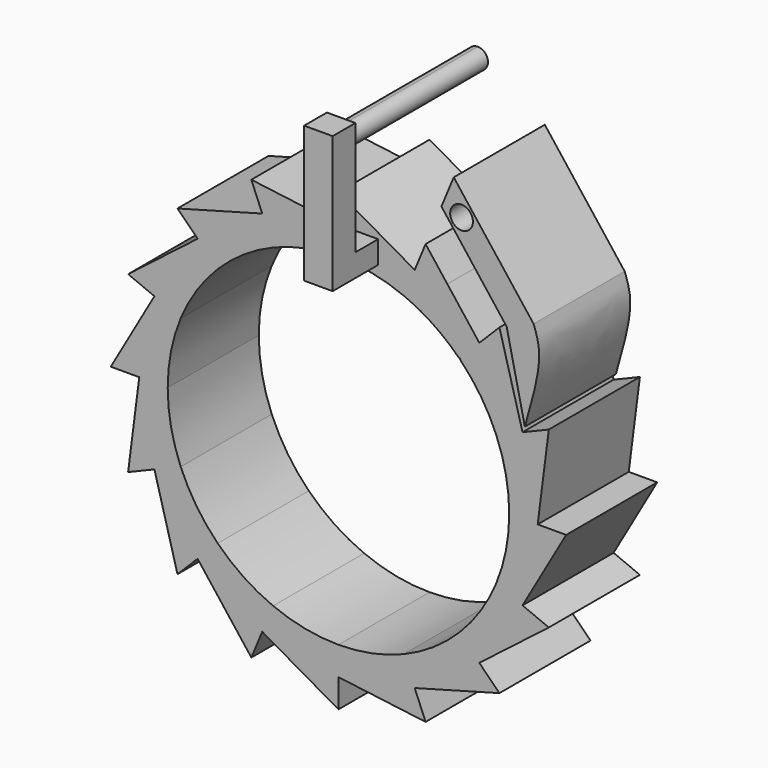
from build123d import *

# Parameters (mm, degrees)
F1_DEPTH = 12.7
F2_DEPTH = 12.7
F3_W     = 3.175
F3_H     = 2.5298167378
F4_DEPTH = 6.35
F5_W     = 3.175
F5_H     = 3.175
F6_DEPTH = 12.7
F8_DEPTH = 19.05


with BuildPart() as f1:
    # F0 (on Front) → F1 (new body)
    with BuildSketch(Plane.XZ):
        with BuildLine():
            Line((22.225, 0), (19.05, 0))
            ThreePointArc((19.05, 0), (18.6839595917, -3.7164706344), (17.5999050943, -7.2901193866))
            Line((17.5999050943, -7.2901193866), (20.5332226101, -8.5051392843))
            ThreePointArc((20.5332226101, -8.5051392843), (21.797952857, -4.3358824068), (22.225, 0))
        make_face()
        with BuildLine():
            ThreePointArc((17.5999050943, 7.2901193866), (18.6839595917, 3.7164706344), (19.05, 0))
            Line((19.05, 0), (22.225, 0))
            ThreePointArc((22.225, 0), (21.797952857, 4.3358824068), (20.5332226101, 8.5051392843))
            Line((20.5332226101, 8.5051392843), (17.5999050943, 7.2901193866))
        make_face()
        with BuildLine():
            ThreePointArc((13.6038028063, 13.335630814), (15.8919759247, 10.5046466484), (17.5999050943, 7.2901193866))
            Line((17.5999050943, 7.2901193866), (20.5332226101, 8.5051392843))
            ThreePointArc((20.5332226101, 8.5051392843), (18.4794121334, 12.3475484289), (15.7154482119, 15.7154482119))
            Line((15.7154482119, 15.7154482119), (13.5294883096, 13.5294883096))
            Line((13.5294883096, 13.5294883096), (13.6038028063, 13.335630814))
        make_face()
        with BuildLine():
            Line((20.5332226101, -8.5051392843), (17.5999050943, -7.2901193866))
            ThreePointArc((17.5999050943, -7.2901193866), (15.8394961144, -10.583612939), (13.4703841816, -13.4703841816))
            Line((13.4703841816, -13.4703841816), (15.7154482119, -15.7154482119))
            ThreePointArc((15.7154482119, -15.7154482119), (18.4794121334, -12.3475484289), (20.5332226101, -8.5051392843))
        make_face()
        with BuildLine():
            Line((25.4, 0), (22.225, 0))
            ThreePointArc((22.225, 0), (21.797952857, -4.3358824068), (20.5332226101, -8.5051392843))
            add(Edge.make_bspline(
                [(25.4, 0), (23.77774087, -2.8350464281), (22.15548174, -5.6700928562), (20.5332226101, -8.5051392843)],
                knots=[0, 0, 0, 0, 9.7991283494, 9.7991283494, 9.7991283494, 9.7991283494], degree=3))
        make_face()
        with BuildLine():
            ThreePointArc((20.5332226101, 8.5051392843), (21.797952857, 4.3358824068), (22.225, 0))
            add(Edge.make_bspline(
                [(23.4665401258, 9.7201591821), (23.0526934172, 6.4801061214), (22.6388467086, 3.2400530607), (22.225, 0)],
                knots=[0, 0, 0, 0, 9.7991283494, 9.7991283494, 9.7991283494, 9.7991283494], degree=3))
            Line((23.4665401258, 9.7201591821), (20.5332226101, 8.5051392843))
        make_face()
        with BuildLine():
            ThreePointArc((15.7154482119, 15.7154482119), (18.4794121334, 12.3475484289), (20.5332226101, 8.5051392843))
            add(Edge.make_bspline(
                [(17.9605122421, 17.9605122421), (18.8180823648, 14.8087212562), (19.6756524874, 11.6569302703), (20.5332226101, 8.5051392843)],
                knots=[0, 0, 0, 0, 9.7991283494, 9.7991283494, 9.7991283494, 9.7991283494], degree=3))
            Line((17.9605122421, 17.9605122421), (15.7154482119, 15.7154482119))
        make_face()
        with BuildLine():
            Line((15.7154482119, -15.7154482119), (13.4703841816, -13.4703841816))
            ThreePointArc((13.4703841816, -13.4703841816), (10.583612939, -15.8394961144), (7.2901193866, -17.5999050943))
            Line((7.2901193866, -17.5999050943), (8.5051392843, -20.5332226101))
            ThreePointArc((8.5051392843, -20.5332226101), (12.3475484289, -18.4794121334), (15.7154482119, -15.7154482119))
        make_face()
        with BuildLine():
            Line((23.4665401258, -9.7201591821), (20.5332226101, -8.5051392843))
            ThreePointArc((20.5332226101, -8.5051392843), (18.4794121334, -12.3475484289), (15.7154482119, -15.7154482119))
            add(Edge.make_bspline(
                [(23.4665401258, -9.7201591821), (20.8828428211, -11.7185888587), (18.2991455165, -13.7170185353), (15.7154482119, -15.7154482119)],
                knots=[0, 0, 0, 0, 9.7991283494, 9.7991283494, 9.7991283494, 9.7991283494], degree=3))
        make_face()
        with BuildLine():
            Line((0, 22.225), (0, 19.05))
            ThreePointArc((0, 19.05), (3.7164706344, 18.6839595917), (7.2901193866, 17.5999050943))
            Line((7.2901193866, 17.5999050943), (8.5051392843, 20.5332226101))
            ThreePointArc((8.5051392843, 20.5332226101), (4.3358824068, 21.797952857), (0, 22.225))
        make_face()
        with BuildLine():
            ThreePointArc((-7.2901193866, 17.5999050943), (-3.7164706344, 18.6839595917), (0, 19.05))
            Line((0, 19.05), (0, 22.225))
            ThreePointArc((0, 22.225), (-4.3358824068, 21.797952857), (-8.5051392843, 20.5332226101))
            Line((-8.5051392843, 20.5332226101), (-7.2901193866, 17.5999050943))
        make_face()
        with BuildLine():
            Line((0, -22.225), (0, -19.05))
            ThreePointArc((0, -19.05), (-3.7164706344, -18.6839595917), (-7.2901193866, -17.5999050943))
            Line((-7.2901193866, -17.5999050943), (-8.5051392843, -20.5332226101))
            ThreePointArc((-8.5051392843, -20.5332226101), (-4.3358824068, -21.797952857), (0, -22.225))
        make_face()
        with BuildLine():
            ThreePointArc((7.2901193866, -17.5999050943), (3.7164706344, -18.6839595917), (0, -19.05))
            Line((0, -19.05), (0, -22.225))
            ThreePointArc((0, -22.225), (4.3358824068, -21.797952857), (8.5051392843, -20.5332226101))
            Line((8.5051392843, -20.5332226101), (7.2901193866, -17.5999050943))
        make_face()
        with BuildLine():
            Line((-22.225, 0), (-19.05, 0))
            ThreePointArc((-19.05, 0), (-18.6839595917, 3.7164706344), (-17.5999050943, 7.2901193866))
            Line((-17.5999050943, 7.2901193866), (-20.5332226101, 8.5051392843))
            ThreePointArc((-20.5332226101, 8.5051392843), (-21.797952857, 4.3358824068), (-22.225, 0))
        make_face()
        with BuildLine():
            ThreePointArc((-17.5999050943, -7.2901193866), (-18.6839595917, -3.7164706344), (-19.05, 0))
            Line((-19.05, 0), (-22.225, 0))
            ThreePointArc((-22.225, 0), (-21.797952857, -4.3358824068), (-20.5332226101, -8.5051392843))
            Line((-20.5332226101, -8.5051392843), (-17.5999050943, -7.2901193866))
        make_face()
        with BuildLine():
            Line((-15.7154482119, 15.7154482119), (-13.4703841816, 13.4703841816))
            ThreePointArc((-13.4703841816, 13.4703841816), (-10.583612939, 15.8394961144), (-7.2901193866, 17.5999050943))
            Line((-7.2901193866, 17.5999050943), (-8.5051392843, 20.5332226101))
            ThreePointArc((-8.5051392843, 20.5332226101), (-12.3475484289, 18.4794121334), (-15.7154482119, 15.7154482119))
        make_face()
        with BuildLine():
            ThreePointArc((-17.5999050943, 7.2901193866), (-15.8394961144, 10.583612939), (-13.4703841816, 13.4703841816))
            Line((-13.4703841816, 13.4703841816), (-15.7154482119, 15.7154482119))
            ThreePointArc((-15.7154482119, 15.7154482119), (-18.4794121334, 12.3475484289), (-20.5332226101, 8.5051392843))
            Line((-20.5332226101, 8.5051392843), (-17.5999050943, 7.2901193866))
        make_face()
        with BuildLine():
            ThreePointArc((10.0814161767, 16.1637726992), (11.8526541524, 14.9136544664), (13.4703841816, 13.4703841816))
            Line((13.4703841816, 13.4703841816), (13.5294883096, 13.5294883096))
            Line((13.5294883096, 13.5294883096), (15.7154482119, 15.7154482119))
            ThreePointArc((15.7154482119, 15.7154482119), (13.7070979521, 17.4947446604), (11.4989657335, 19.0190539212))
            Line((11.4989657335, 19.0190539212), (10.0814161767, 16.1637726992))
        make_face()
        with BuildLine():
            Line((-15.7154482119, -15.7154482119), (-13.4703841816, -13.4703841816))
            ThreePointArc((-13.4703841816, -13.4703841816), (-15.8394961144, -10.583612939), (-17.5999050943, -7.2901193866))
            Line((-17.5999050943, -7.2901193866), (-20.5332226101, -8.5051392843))
            ThreePointArc((-20.5332226101, -8.5051392843), (-18.4794121334, -12.3475484289), (-15.7154482119, -15.7154482119))
        make_face()
        with BuildLine():
            ThreePointArc((-7.2901193866, -17.5999050943), (-10.583612939, -15.8394961144), (-13.4703841816, -13.4703841816))
            Line((-13.4703841816, -13.4703841816), (-15.7154482119, -15.7154482119))
            ThreePointArc((-15.7154482119, -15.7154482119), (-12.3475484289, -18.4794121334), (-8.5051392843, -20.5332226101))
            Line((-8.5051392843, -20.5332226101), (-7.2901193866, -17.5999050943))
        make_face()
        with BuildLine():
            Line((8.5051392843, 20.5332226101), (7.2901193866, 17.5999050943))
            ThreePointArc((7.2901193866, 17.5999050943), (8.7153990741, 16.939430893), (10.0814161767, 16.1637726992))
            Line((10.0814161767, 16.1637726992), (11.4989657335, 19.0190539212))
            ThreePointArc((11.4989657335, 19.0190539212), (10.0306645391, 19.8327102007), (8.5051392843, 20.5332226101))
        make_face()
        with BuildLine():
            ThreePointArc((11.4989657335, 19.0190539212), (13.7070979521, 17.4947446604), (15.7154482119, 15.7154482119))
            add(Edge.make_bspline(
                [(12.1483960433, 20.3271606887), (13.3374134328, 18.7899231964), (14.5264308223, 17.2526857041), (15.7154482119, 15.7154482119)],
                knots=[3.9688836597, 3.9688836597, 3.9688836597, 3.9688836597, 9.7991283494, 9.7991283494, 9.7991283494, 9.7991283494], degree=3))
            Line((12.1483960433, 20.3271606887), (11.4989657335, 19.0190539212))
        make_face()
        with BuildLine():
            Line((17.9605122421, -17.9605122421), (15.7154482119, -15.7154482119))
            ThreePointArc((15.7154482119, -15.7154482119), (12.3475484289, -18.4794121334), (8.5051392843, -20.5332226101))
            add(Edge.make_bspline(
                [(17.9605122421, -17.9605122421), (14.8087212562, -18.8180823648), (11.6569302703, -19.6756524874), (8.5051392843, -20.5332226101)],
                knots=[0, 0, 0, 0, 9.7991283494, 9.7991283494, 9.7991283494, 9.7991283494], degree=3))
        make_face()
        with BuildLine():
            Line((0, 25.4), (0, 22.225))
            ThreePointArc((0, 22.225), (4.3358824068, 21.797952857), (8.5051392843, 20.5332226101))
            add(Edge.make_bspline(
                [(0, 25.4), (2.8350464281, 23.77774087), (5.6700928562, 22.15548174), (8.5051392843, 20.5332226101)],
                knots=[0, 0, 0, 0, 9.7991283494, 9.7991283494, 9.7991283494, 9.7991283494], degree=3))
        make_face()
        with BuildLine():
            ThreePointArc((-8.5051392843, 20.5332226101), (-4.3358824068, 21.797952857), (0, 22.225))
            add(Edge.make_bspline(
                [(-9.7201591821, 23.4665401258), (-6.4801061214, 23.0526934172), (-3.2400530607, 22.6388467086), (0, 22.225)],
                knots=[0, 0, 0, 0, 9.7991283494, 9.7991283494, 9.7991283494, 9.7991283494], degree=3))
            Line((-9.7201591821, 23.4665401258), (-8.5051392843, 20.5332226101))
        make_face()
        with BuildLine():
            Line((0, -25.4), (0, -22.225))
            ThreePointArc((0, -22.225), (-4.3358824068, -21.797952857), (-8.5051392843, -20.5332226101))
            add(Edge.make_bspline(
                [(0, -25.4), (-2.8350464281, -23.77774087), (-5.6700928562, -22.15548174), (-8.5051392843, -20.5332226101)],
                knots=[0, 0, 0, 0, 9.7991283494, 9.7991283494, 9.7991283494, 9.7991283494], degree=3))
        make_face()
        with BuildLine():
            ThreePointArc((8.5051392843, -20.5332226101), (4.3358824068, -21.797952857), (0, -22.225))
            add(Edge.make_bspline(
                [(9.7201591821, -23.4665401258), (6.4801061214, -23.0526934172), (3.2400530607, -22.6388467086), (0, -22.225)],
                knots=[0, 0, 0, 0, 9.7991283494, 9.7991283494, 9.7991283494, 9.7991283494], degree=3))
            Line((9.7201591821, -23.4665401258), (8.5051392843, -20.5332226101))
        make_face()
        with BuildLine():
            Line((-25.4, 0), (-22.225, 0))
            ThreePointArc((-22.225, 0), (-21.797952857, 4.3358824068), (-20.5332226101, 8.5051392843))
            add(Edge.make_bspline(
                [(-25.4, 0), (-23.77774087, 2.8350464281), (-22.15548174, 5.6700928562), (-20.5332226101, 8.5051392843)],
                knots=[0, 0, 0, 0, 9.7991283494, 9.7991283494, 9.7991283494, 9.7991283494], degree=3))
        make_face()
        with BuildLine():
            ThreePointArc((-20.5332226101, -8.5051392843), (-21.797952857, -4.3358824068), (-22.225, 0))
            add(Edge.make_bspline(
                [(-23.4665401258, -9.7201591821), (-23.0526934172, -6.4801061214), (-22.6388467086, -3.2400530607), (-22.225, 0)],
                knots=[0, 0, 0, 0, 9.7991283494, 9.7991283494, 9.7991283494, 9.7991283494], degree=3))
            Line((-23.4665401258, -9.7201591821), (-20.5332226101, -8.5051392843))
        make_face()
        with BuildLine():
            Line((-17.9605122421, 17.9605122421), (-15.7154482119, 15.7154482119))
            ThreePointArc((-15.7154482119, 15.7154482119), (-12.3475484289, 18.4794121334), (-8.5051392843, 20.5332226101))
            add(Edge.make_bspline(
                [(-17.9605122421, 17.9605122421), (-14.8087212562, 18.8180823648), (-11.6569302703, 19.6756524874), (-8.5051392843, 20.5332226101)],
                knots=[0, 0, 0, 0, 9.7991283494, 9.7991283494, 9.7991283494, 9.7991283494], degree=3))
        make_face()
        with BuildLine():
            ThreePointArc((-20.5332226101, 8.5051392843), (-18.4794121334, 12.3475484289), (-15.7154482119, 15.7154482119))
            add(Edge.make_bspline(
                [(-23.4665401258, 9.7201591821), (-20.8828428211, 11.7185888587), (-18.2991455165, 13.7170185353), (-15.7154482119, 15.7154482119)],
                knots=[0, 0, 0, 0, 9.7991283494, 9.7991283494, 9.7991283494, 9.7991283494], degree=3))
            Line((-23.4665401258, 9.7201591821), (-20.5332226101, 8.5051392843))
        make_face()
        with BuildLine():
            Line((-17.9605122421, -17.9605122421), (-15.7154482119, -15.7154482119))
            ThreePointArc((-15.7154482119, -15.7154482119), (-18.4794121334, -12.3475484289), (-20.5332226101, -8.5051392843))
            add(Edge.make_bspline(
                [(-17.9605122421, -17.9605122421), (-18.8180823648, -14.8087212562), (-19.6756524874, -11.6569302703), (-20.5332226101, -8.5051392843)],
                knots=[0, 0, 0, 0, 9.7991283494, 9.7991283494, 9.7991283494, 9.7991283494], degree=3))
        make_face()
        with BuildLine():
            ThreePointArc((-8.5051392843, -20.5332226101), (-12.3475484289, -18.4794121334), (-15.7154482119, -15.7154482119))
            add(Edge.make_bspline(
                [(-9.7201591821, -23.4665401258), (-11.7185888587, -20.8828428211), (-13.7170185353, -18.2991455165), (-15.7154482119, -15.7154482119)],
                knots=[0, 0, 0, 0, 9.7991283494, 9.7991283494, 9.7991283494, 9.7991283494], degree=3))
            Line((-9.7201591821, -23.4665401258), (-8.5051392843, -20.5332226101))
        make_face()
        with BuildLine():
            Line((9.7201591821, 23.4665401258), (8.5051392843, 20.5332226101))
            ThreePointArc((8.5051392843, 20.5332226101), (10.0306645391, 19.8327102007), (11.4989657335, 19.0190539212))
            Line((11.4989657335, 19.0190539212), (12.1483960433, 20.3271606887))
            add(Edge.make_bspline(
                [(9.7201591821, 23.4665401258), (10.5295714691, 22.4200803134), (11.3389837562, 21.373620501), (12.1483960433, 20.3271606887)],
                knots=[0, 0, 0, 0, 3.9688836597, 3.9688836597, 3.9688836597, 3.9688836597], degree=3))
        make_face()
    extrude(amount=F1_DEPTH)


with BuildPart() as f1b:
    # F0 (on Front) → F1, piece 2 (new body)
    with BuildSketch(Plane.XZ):
        with BuildLine():
            Line((21.7723754362, 19.5458339127), (18.7626034021, 18.2991455165))
            Line((18.7626034021, 18.2991455165), (20.7947588792, 9.1326845255))
            add(Edge.make_bspline(
                [(20.7947588792, 9.1326845255), (21.5940872867, 11.9165923745), (22.8929668394, 16.4403412459), (22.0836427646, 18.6832194012), (21.7723754362, 19.5458339127)],
                knots=[0, 0, 0, 0, 0.615398407, 1, 1, 1, 1], degree=3))
        make_face()
        Polygon((14.1256870702, 24.30989407), (18.7626034021, 18.2991455165), (21.7723754362, 19.5458339127), (12.8596710703, 31.0459923057), (12.173106986, 29.3884799819), (11.4865429017, 27.7309676581), align=None)
        with BuildLine():
            ThreePointArc((15.000555263, 27.3788877033), (13.1715930511, 26.2385100266), (12.9525847974, 28.3827113704))
            ThreePointArc((12.9525847974, 28.3827113704), (14.2895174749, 28.5192653801), (15.000555263, 27.3788877033))
        make_face(mode=Mode.SUBTRACT)
    extrude(amount=F1_DEPTH)


with BuildPart() as f2:
    # F0 (on Front) → F2 (new body)
    with BuildSketch(Plane.XZ):
        with BuildLine():
            Line((22.225, 0), (19.05, 0))
            ThreePointArc((19.05, 0), (18.6839595917, -3.7164706344), (17.5999050943, -7.2901193866))
            Line((17.5999050943, -7.2901193866), (20.5332226101, -8.5051392843))
            ThreePointArc((20.5332226101, -8.5051392843), (21.797952857, -4.3358824068), (22.225, 0))
        make_face()
        with BuildLine():
            ThreePointArc((17.5999050943, 7.2901193866), (18.6839595917, 3.7164706344), (19.05, 0))
            Line((19.05, 0), (22.225, 0))
            ThreePointArc((22.225, 0), (21.797952857, 4.3358824068), (20.5332226101, 8.5051392843))
            Line((20.5332226101, 8.5051392843), (17.5999050943, 7.2901193866))
        make_face()
        with BuildLine():
            ThreePointArc((13.6038028063, 13.335630814), (15.8919759247, 10.5046466484), (17.5999050943, 7.2901193866))
            Line((17.5999050943, 7.2901193866), (20.5332226101, 8.5051392843))
            ThreePointArc((20.5332226101, 8.5051392843), (18.4794121334, 12.3475484289), (15.7154482119, 15.7154482119))
            Line((15.7154482119, 15.7154482119), (13.5294883096, 13.5294883096))
            Line((13.5294883096, 13.5294883096), (13.6038028063, 13.335630814))
        make_face()
        with BuildLine():
            Line((20.5332226101, -8.5051392843), (17.5999050943, -7.2901193866))
            ThreePointArc((17.5999050943, -7.2901193866), (15.8394961144, -10.583612939), (13.4703841816, -13.4703841816))
            Line((13.4703841816, -13.4703841816), (15.7154482119, -15.7154482119))
            ThreePointArc((15.7154482119, -15.7154482119), (18.4794121334, -12.3475484289), (20.5332226101, -8.5051392843))
        make_face()
        with BuildLine():
            Line((25.4, 0), (22.225, 0))
            ThreePointArc((22.225, 0), (21.797952857, -4.3358824068), (20.5332226101, -8.5051392843))
            add(Edge.make_bspline(
                [(25.4, 0), (23.77774087, -2.8350464281), (22.15548174, -5.6700928562), (20.5332226101, -8.5051392843)],
                knots=[0, 0, 0, 0, 9.7991283494, 9.7991283494, 9.7991283494, 9.7991283494], degree=3))
        make_face()
        with BuildLine():
            ThreePointArc((20.5332226101, 8.5051392843), (21.797952857, 4.3358824068), (22.225, 0))
            add(Edge.make_bspline(
                [(23.4665401258, 9.7201591821), (23.0526934172, 6.4801061214), (22.6388467086, 3.2400530607), (22.225, 0)],
                knots=[0, 0, 0, 0, 9.7991283494, 9.7991283494, 9.7991283494, 9.7991283494], degree=3))
            Line((23.4665401258, 9.7201591821), (20.5332226101, 8.5051392843))
        make_face()
        with BuildLine():
            ThreePointArc((15.7154482119, 15.7154482119), (18.4794121334, 12.3475484289), (20.5332226101, 8.5051392843))
            add(Edge.make_bspline(
                [(17.9605122421, 17.9605122421), (18.8180823648, 14.8087212562), (19.6756524874, 11.6569302703), (20.5332226101, 8.5051392843)],
                knots=[0, 0, 0, 0, 9.7991283494, 9.7991283494, 9.7991283494, 9.7991283494], degree=3))
            Line((17.9605122421, 17.9605122421), (15.7154482119, 15.7154482119))
        make_face()
        with BuildLine():
            Line((15.7154482119, -15.7154482119), (13.4703841816, -13.4703841816))
            ThreePointArc((13.4703841816, -13.4703841816), (10.583612939, -15.8394961144), (7.2901193866, -17.5999050943))
            Line((7.2901193866, -17.5999050943), (8.5051392843, -20.5332226101))
            ThreePointArc((8.5051392843, -20.5332226101), (12.3475484289, -18.4794121334), (15.7154482119, -15.7154482119))
        make_face()
        with BuildLine():
            Line((23.4665401258, -9.7201591821), (20.5332226101, -8.5051392843))
            ThreePointArc((20.5332226101, -8.5051392843), (18.4794121334, -12.3475484289), (15.7154482119, -15.7154482119))
            add(Edge.make_bspline(
                [(23.4665401258, -9.7201591821), (20.8828428211, -11.7185888587), (18.2991455165, -13.7170185353), (15.7154482119, -15.7154482119)],
                knots=[0, 0, 0, 0, 9.7991283494, 9.7991283494, 9.7991283494, 9.7991283494], degree=3))
        make_face()
        with BuildLine():
            Line((0, 22.225), (0, 19.05))
            ThreePointArc((0, 19.05), (3.7164706344, 18.6839595917), (7.2901193866, 17.5999050943))
            Line((7.2901193866, 17.5999050943), (8.5051392843, 20.5332226101))
            ThreePointArc((8.5051392843, 20.5332226101), (4.3358824068, 21.797952857), (0, 22.225))
        make_face()
        with BuildLine():
            ThreePointArc((-7.2901193866, 17.5999050943), (-3.7164706344, 18.6839595917), (0, 19.05))
            Line((0, 19.05), (0, 22.225))
            ThreePointArc((0, 22.225), (-4.3358824068, 21.797952857), (-8.5051392843, 20.5332226101))
            Line((-8.5051392843, 20.5332226101), (-7.2901193866, 17.5999050943))
        make_face()
        with BuildLine():
            Line((0, -22.225), (0, -19.05))
            ThreePointArc((0, -19.05), (-3.7164706344, -18.6839595917), (-7.2901193866, -17.5999050943))
            Line((-7.2901193866, -17.5999050943), (-8.5051392843, -20.5332226101))
            ThreePointArc((-8.5051392843, -20.5332226101), (-4.3358824068, -21.797952857), (0, -22.225))
        make_face()
        with BuildLine():
            ThreePointArc((7.2901193866, -17.5999050943), (3.7164706344, -18.6839595917), (0, -19.05))
            Line((0, -19.05), (0, -22.225))
            ThreePointArc((0, -22.225), (4.3358824068, -21.797952857), (8.5051392843, -20.5332226101))
            Line((8.5051392843, -20.5332226101), (7.2901193866, -17.5999050943))
        make_face()
        with BuildLine():
            Line((-22.225, 0), (-19.05, 0))
            ThreePointArc((-19.05, 0), (-18.6839595917, 3.7164706344), (-17.5999050943, 7.2901193866))
            Line((-17.5999050943, 7.2901193866), (-20.5332226101, 8.5051392843))
            ThreePointArc((-20.5332226101, 8.5051392843), (-21.797952857, 4.3358824068), (-22.225, 0))
        make_face()
        with BuildLine():
            ThreePointArc((-17.5999050943, -7.2901193866), (-18.6839595917, -3.7164706344), (-19.05, 0))
            Line((-19.05, 0), (-22.225, 0))
            ThreePointArc((-22.225, 0), (-21.797952857, -4.3358824068), (-20.5332226101, -8.5051392843))
            Line((-20.5332226101, -8.5051392843), (-17.5999050943, -7.2901193866))
        make_face()
        with BuildLine():
            Line((-15.7154482119, 15.7154482119), (-13.4703841816, 13.4703841816))
            ThreePointArc((-13.4703841816, 13.4703841816), (-10.583612939, 15.8394961144), (-7.2901193866, 17.5999050943))
            Line((-7.2901193866, 17.5999050943), (-8.5051392843, 20.5332226101))
            ThreePointArc((-8.5051392843, 20.5332226101), (-12.3475484289, 18.4794121334), (-15.7154482119, 15.7154482119))
        make_face()
        with BuildLine():
            ThreePointArc((-17.5999050943, 7.2901193866), (-15.8394961144, 10.583612939), (-13.4703841816, 13.4703841816))
            Line((-13.4703841816, 13.4703841816), (-15.7154482119, 15.7154482119))
            ThreePointArc((-15.7154482119, 15.7154482119), (-18.4794121334, 12.3475484289), (-20.5332226101, 8.5051392843))
            Line((-20.5332226101, 8.5051392843), (-17.5999050943, 7.2901193866))
        make_face()
        with BuildLine():
            ThreePointArc((10.0814161767, 16.1637726992), (11.8526541524, 14.9136544664), (13.4703841816, 13.4703841816))
            Line((13.4703841816, 13.4703841816), (13.5294883096, 13.5294883096))
            Line((13.5294883096, 13.5294883096), (15.7154482119, 15.7154482119))
            ThreePointArc((15.7154482119, 15.7154482119), (13.7070979521, 17.4947446604), (11.4989657335, 19.0190539212))
            Line((11.4989657335, 19.0190539212), (10.0814161767, 16.1637726992))
        make_face()
        with BuildLine():
            Line((-15.7154482119, -15.7154482119), (-13.4703841816, -13.4703841816))
            ThreePointArc((-13.4703841816, -13.4703841816), (-15.8394961144, -10.583612939), (-17.5999050943, -7.2901193866))
            Line((-17.5999050943, -7.2901193866), (-20.5332226101, -8.5051392843))
            ThreePointArc((-20.5332226101, -8.5051392843), (-18.4794121334, -12.3475484289), (-15.7154482119, -15.7154482119))
        make_face()
        with BuildLine():
            ThreePointArc((-7.2901193866, -17.5999050943), (-10.583612939, -15.8394961144), (-13.4703841816, -13.4703841816))
            Line((-13.4703841816, -13.4703841816), (-15.7154482119, -15.7154482119))
            ThreePointArc((-15.7154482119, -15.7154482119), (-12.3475484289, -18.4794121334), (-8.5051392843, -20.5332226101))
            Line((-8.5051392843, -20.5332226101), (-7.2901193866, -17.5999050943))
        make_face()
        with BuildLine():
            Line((8.5051392843, 20.5332226101), (7.2901193866, 17.5999050943))
            ThreePointArc((7.2901193866, 17.5999050943), (8.7153990741, 16.939430893), (10.0814161767, 16.1637726992))
            Line((10.0814161767, 16.1637726992), (11.4989657335, 19.0190539212))
            ThreePointArc((11.4989657335, 19.0190539212), (10.0306645391, 19.8327102007), (8.5051392843, 20.5332226101))
        make_face()
        with BuildLine():
            ThreePointArc((11.4989657335, 19.0190539212), (13.7070979521, 17.4947446604), (15.7154482119, 15.7154482119))
            add(Edge.make_bspline(
                [(12.1483960433, 20.3271606887), (13.3374134328, 18.7899231964), (14.5264308223, 17.2526857041), (15.7154482119, 15.7154482119)],
                knots=[3.9688836597, 3.9688836597, 3.9688836597, 3.9688836597, 9.7991283494, 9.7991283494, 9.7991283494, 9.7991283494], degree=3))
            Line((12.1483960433, 20.3271606887), (11.4989657335, 19.0190539212))
        make_face()
        with BuildLine():
            Line((17.9605122421, -17.9605122421), (15.7154482119, -15.7154482119))
            ThreePointArc((15.7154482119, -15.7154482119), (12.3475484289, -18.4794121334), (8.5051392843, -20.5332226101))
            add(Edge.make_bspline(
                [(17.9605122421, -17.9605122421), (14.8087212562, -18.8180823648), (11.6569302703, -19.6756524874), (8.5051392843, -20.5332226101)],
                knots=[0, 0, 0, 0, 9.7991283494, 9.7991283494, 9.7991283494, 9.7991283494], degree=3))
        make_face()
        with BuildLine():
            Line((0, 25.4), (0, 22.225))
            ThreePointArc((0, 22.225), (4.3358824068, 21.797952857), (8.5051392843, 20.5332226101))
            add(Edge.make_bspline(
                [(0, 25.4), (2.8350464281, 23.77774087), (5.6700928562, 22.15548174), (8.5051392843, 20.5332226101)],
                knots=[0, 0, 0, 0, 9.7991283494, 9.7991283494, 9.7991283494, 9.7991283494], degree=3))
        make_face()
        with BuildLine():
            ThreePointArc((-8.5051392843, 20.5332226101), (-4.3358824068, 21.797952857), (0, 22.225))
            add(Edge.make_bspline(
                [(-9.7201591821, 23.4665401258), (-6.4801061214, 23.0526934172), (-3.2400530607, 22.6388467086), (0, 22.225)],
                knots=[0, 0, 0, 0, 9.7991283494, 9.7991283494, 9.7991283494, 9.7991283494], degree=3))
            Line((-9.7201591821, 23.4665401258), (-8.5051392843, 20.5332226101))
        make_face()
        with BuildLine():
            Line((0, -25.4), (0, -22.225))
            ThreePointArc((0, -22.225), (-4.3358824068, -21.797952857), (-8.5051392843, -20.5332226101))
            add(Edge.make_bspline(
                [(0, -25.4), (-2.8350464281, -23.77774087), (-5.6700928562, -22.15548174), (-8.5051392843, -20.5332226101)],
                knots=[0, 0, 0, 0, 9.7991283494, 9.7991283494, 9.7991283494, 9.7991283494], degree=3))
        make_face()
        with BuildLine():
            ThreePointArc((8.5051392843, -20.5332226101), (4.3358824068, -21.797952857), (0, -22.225))
            add(Edge.make_bspline(
                [(9.7201591821, -23.4665401258), (6.4801061214, -23.0526934172), (3.2400530607, -22.6388467086), (0, -22.225)],
                knots=[0, 0, 0, 0, 9.7991283494, 9.7991283494, 9.7991283494, 9.7991283494], degree=3))
            Line((9.7201591821, -23.4665401258), (8.5051392843, -20.5332226101))
        make_face()
        with BuildLine():
            Line((-25.4, 0), (-22.225, 0))
            ThreePointArc((-22.225, 0), (-21.797952857, 4.3358824068), (-20.5332226101, 8.5051392843))
            add(Edge.make_bspline(
                [(-25.4, 0), (-23.77774087, 2.8350464281), (-22.15548174, 5.6700928562), (-20.5332226101, 8.5051392843)],
                knots=[0, 0, 0, 0, 9.7991283494, 9.7991283494, 9.7991283494, 9.7991283494], degree=3))
        make_face()
        with BuildLine():
            ThreePointArc((-20.5332226101, -8.5051392843), (-21.797952857, -4.3358824068), (-22.225, 0))
            add(Edge.make_bspline(
                [(-23.4665401258, -9.7201591821), (-23.0526934172, -6.4801061214), (-22.6388467086, -3.2400530607), (-22.225, 0)],
                knots=[0, 0, 0, 0, 9.7991283494, 9.7991283494, 9.7991283494, 9.7991283494], degree=3))
            Line((-23.4665401258, -9.7201591821), (-20.5332226101, -8.5051392843))
        make_face()
        with BuildLine():
            Line((-17.9605122421, 17.9605122421), (-15.7154482119, 15.7154482119))
            ThreePointArc((-15.7154482119, 15.7154482119), (-12.3475484289, 18.4794121334), (-8.5051392843, 20.5332226101))
            add(Edge.make_bspline(
                [(-17.9605122421, 17.9605122421), (-14.8087212562, 18.8180823648), (-11.6569302703, 19.6756524874), (-8.5051392843, 20.5332226101)],
                knots=[0, 0, 0, 0, 9.7991283494, 9.7991283494, 9.7991283494, 9.7991283494], degree=3))
        make_face()
        with BuildLine():
            ThreePointArc((-20.5332226101, 8.5051392843), (-18.4794121334, 12.3475484289), (-15.7154482119, 15.7154482119))
            add(Edge.make_bspline(
                [(-23.4665401258, 9.7201591821), (-20.8828428211, 11.7185888587), (-18.2991455165, 13.7170185353), (-15.7154482119, 15.7154482119)],
                knots=[0, 0, 0, 0, 9.7991283494, 9.7991283494, 9.7991283494, 9.7991283494], degree=3))
            Line((-23.4665401258, 9.7201591821), (-20.5332226101, 8.5051392843))
        make_face()
        with BuildLine():
            Line((-17.9605122421, -17.9605122421), (-15.7154482119, -15.7154482119))
            ThreePointArc((-15.7154482119, -15.7154482119), (-18.4794121334, -12.3475484289), (-20.5332226101, -8.5051392843))
            add(Edge.make_bspline(
                [(-17.9605122421, -17.9605122421), (-18.8180823648, -14.8087212562), (-19.6756524874, -11.6569302703), (-20.5332226101, -8.5051392843)],
                knots=[0, 0, 0, 0, 9.7991283494, 9.7991283494, 9.7991283494, 9.7991283494], degree=3))
        make_face()
        with BuildLine():
            ThreePointArc((-8.5051392843, -20.5332226101), (-12.3475484289, -18.4794121334), (-15.7154482119, -15.7154482119))
            add(Edge.make_bspline(
                [(-9.7201591821, -23.4665401258), (-11.7185888587, -20.8828428211), (-13.7170185353, -18.2991455165), (-15.7154482119, -15.7154482119)],
                knots=[0, 0, 0, 0, 9.7991283494, 9.7991283494, 9.7991283494, 9.7991283494], degree=3))
            Line((-9.7201591821, -23.4665401258), (-8.5051392843, -20.5332226101))
        make_face()
        with BuildLine():
            Line((9.7201591821, 23.4665401258), (8.5051392843, 20.5332226101))
            ThreePointArc((8.5051392843, 20.5332226101), (10.0306645391, 19.8327102007), (11.4989657335, 19.0190539212))
            Line((11.4989657335, 19.0190539212), (12.1483960433, 20.3271606887))
            add(Edge.make_bspline(
                [(9.7201591821, 23.4665401258), (10.5295714691, 22.4200803134), (11.3389837562, 21.373620501), (12.1483960433, 20.3271606887)],
                knots=[0, 0, 0, 0, 3.9688836597, 3.9688836597, 3.9688836597, 3.9688836597], degree=3))
        make_face()
    extrude(amount=F2_DEPTH)


with BuildPart() as f2b:
    # F0 (on Front) → F2, piece 2 (new body)
    with BuildSketch(Plane.XZ):
        with BuildLine():
            Line((21.7723754362, 19.5458339127), (18.7626034021, 18.2991455165))
            Line((18.7626034021, 18.2991455165), (20.7947588792, 9.1326845255))
            add(Edge.make_bspline(
                [(20.7947588792, 9.1326845255), (21.5940872867, 11.9165923745), (22.8929668394, 16.4403412459), (22.0836427646, 18.6832194012), (21.7723754362, 19.5458339127)],
                knots=[0, 0, 0, 0, 0.615398407, 1, 1, 1, 1], degree=3))
        make_face()
        Polygon((14.1256870702, 24.30989407), (18.7626034021, 18.2991455165), (21.7723754362, 19.5458339127), (12.8596710703, 31.0459923057), (12.173106986, 29.3884799819), (11.4865429017, 27.7309676581), align=None)
        with BuildLine():
            ThreePointArc((15.000555263, 27.3788877033), (13.1715930511, 26.2385100266), (12.9525847974, 28.3827113704))
            ThreePointArc((12.9525847974, 28.3827113704), (14.2895174749, 28.5192653801), (15.000555263, 27.3788877033))
        make_face(mode=Mode.SUBTRACT)
    extrude(amount=F2_DEPTH)


with BuildPart() as f4:
    # F3 (on face) → F4 (new body)
    with BuildSketch(Plane.XZ.offset(12.7)):
        with Locations((2.8398996411, 20.9600916311)):
            Rectangle(F3_W, F3_H)
    extrude(amount=F4_DEPTH)

    # F5 (on face) → F6 (join)
    with BuildSketch(Plane.XY.offset(22.225)):
        with Locations((2.8398996411, -17.4625)):
            Rectangle(F5_W, F5_H)
    extrude(amount=F6_DEPTH)

    # F7 (on face) → F8 (join)
    with BuildSketch(Plane(origin=(0, -15.875, 0), x_dir=(-1, 0, 0), z_dir=(0, 1, 0))):
        with BuildLine():
            ThreePointArc((-1.6968996411, 33.02), (-2.0316765902, 33.8282230509), (-2.8398996411, 34.163))
            Line((-2.8398996411, 34.163), (-2.8398996411, 33.02))
            Line((-2.8398996411, 33.02), (-2.8398996411, 31.877))
            ThreePointArc((-2.8398996411, 31.877), (-2.0316765902, 32.2117769491), (-1.6968996411, 33.02))
        make_face()
        with BuildLine():
            Line((-2.8398996411, 33.02), (-2.8398996411, 34.163))
            ThreePointArc((-2.8398996411, 34.163), (-3.9828996411, 33.02), (-2.8398996411, 31.877))
            Line((-2.8398996411, 31.877), (-2.8398996411, 33.02))
        make_face()
    extrude(amount=F8_DEPTH)


solid = Compound([f1.part, f1b.part, f2.part, f2b.part, f4.part])
